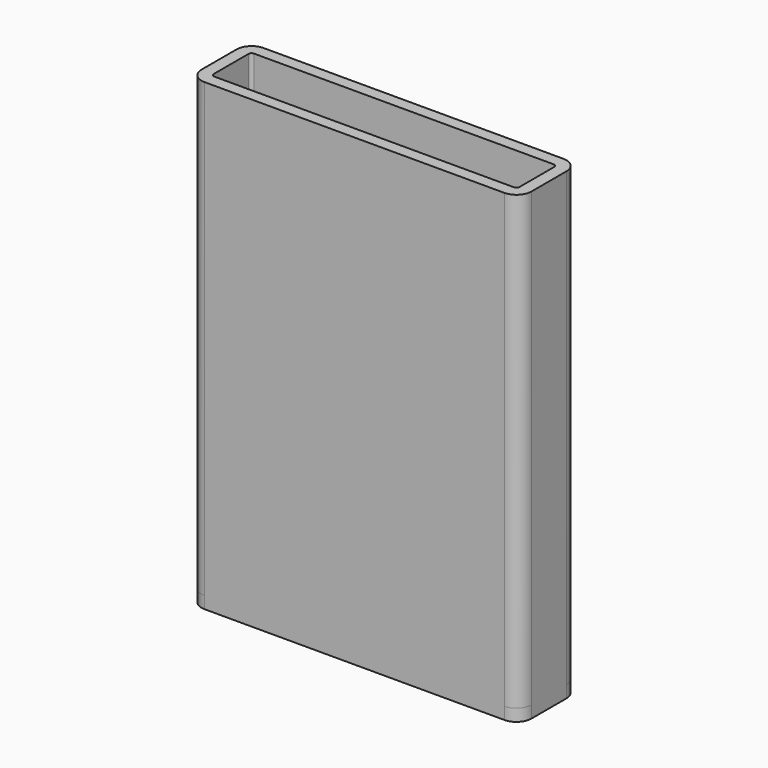
from build123d import *

# Parameters (mm, degrees)
F0_W     = 21.9
F0_H     = 4.9
F0_W_2   = 20.3
F0_H_2   = 3.3
F1_DEPTH = 30
F2_R     = 0.2
F3_R     = 1
F5_DEPTH = 0.8


with BuildPart() as f1:
    # F0 (on Top) → F1 (new body)
    with BuildSketch(Plane.XY):
        Rectangle(F0_W, F0_H)
        Rectangle(F0_W_2, F0_H_2, mode=Mode.SUBTRACT)
    extrude(amount=F1_DEPTH)

    # F2
    f2_edges = [f1.edges().sort_by_distance(p)[0] for p in [
        (-10.15, -1.65, 15),
        (10.15, 1.65, 15),
        (10.15, -1.65, 15),
        (-10.15, 1.65, 15),
    ]]
    fillet(f2_edges, radius=F2_R)

    # F3
    f3_edges = [f1.edges().sort_by_distance(p)[0] for p in [
        (10.95, -2.45, 15),
        (10.95, 2.45, 15),
        (-10.95, -2.45, 15),
        (-10.95, 2.45, 15),
    ]]
    fillet(f3_edges, radius=F3_R)

    # F4 (on face) → F5 (join)
    with BuildSketch(Plane(origin=(0, 0, 0), x_dir=(1, 0, 0), z_dir=(0, 0, -1))):
        with BuildLine():
            ThreePointArc((10.95, 1.45), (10.657107, 2.157107), (9.95, 2.45))
            Line((9.95, 2.45), (-9.95, 2.45))
            ThreePointArc((-9.95, 2.45), (-10.657107, 2.157107), (-10.95, 1.45))
            Line((-10.95, 1.45), (-10.95, -1.45))
            ThreePointArc((-10.95, -1.45), (-10.657107, -2.157107), (-9.95, -2.45))
            Line((-9.95, -2.45), (9.95, -2.45))
            ThreePointArc((9.95, -2.45), (10.657107, -2.157107), (10.95, -1.45))
            Line((10.95, -1.45), (10.95, 1.45))
        make_face()
    extrude(amount=F5_DEPTH)


solid = f1.part
